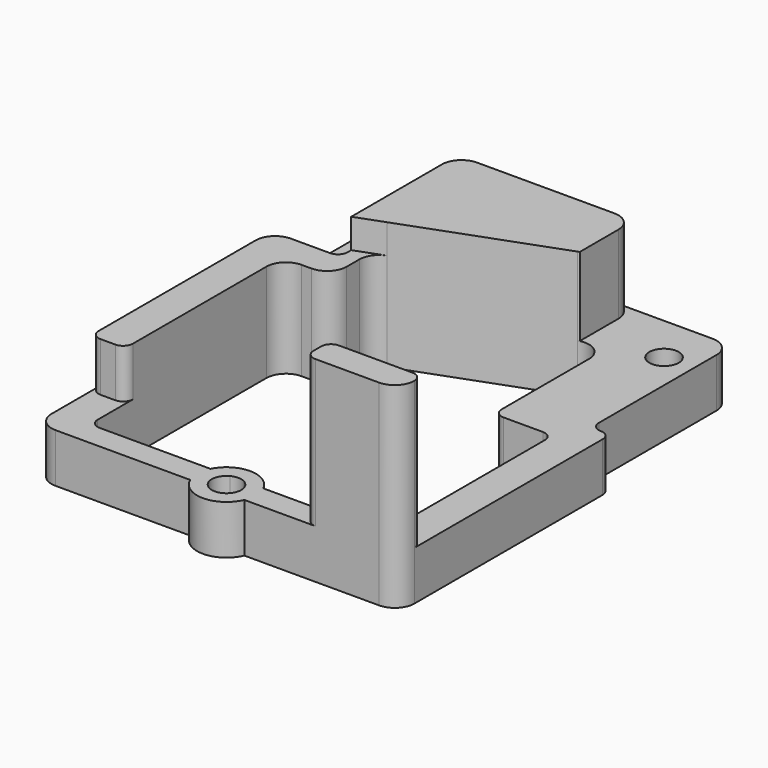
from build123d import *

# Parameters (mm, degrees)
F1_DEPTH = 2
F0_R     = 3
F0_R_2   = 1.5
F2_DEPTH = 5
F4_DEPTH = 5
F5_DEPTH = 8
F6_DEPTH = 4
F7_DEPTH = 15


with BuildPart() as f1:
    # F0 (on Top) → F1 (new body)
    with BuildSketch(Plane.XY):
        with BuildLine():
            Line((-14, -20), (-2.69212803, -20))
            ThreePointArc((-2.69212803, -20), (0, -18.323800087), (2.69212803, -20))
            Line((2.69212803, -20), (14, -20))
            ThreePointArc((14, -20), (14.7071067812, -19.7071067812), (15, -19))
            Line((15, -19), (15, -15.5))
            ThreePointArc((15, -15.5), (14.4142135624, -16.9142135624), (13, -17.5))
            Line((13, -17.5), (-13, -17.5))
            ThreePointArc((-13, -17.5), (-14.4142135624, -16.9142135624), (-15, -15.5))
            Line((-15, -15.5), (-15, -19))
            ThreePointArc((-15, -19), (-14.7071067812, -19.7071067812), (-14, -20))
        make_face()
    extrude(amount=F1_DEPTH)

    # F0 (on Top) → F2 (join)
    with BuildSketch(Plane.XY):
        with BuildLine():
            Line((2.7598104581, -22.5), (16.5, -22.5))
            ThreePointArc((16.5, -22.5), (17.9142135624, -21.9142135624), (18.5, -20.5))
            Line((18.5, -20.5), (18.5, 3.5))
            ThreePointArc((18.5, 3.5), (18.2071067812, 4.2071067812), (17.5, 4.5))
            ThreePointArc((17.5, 4.5), (16.7928932188, 4.7928932188), (16.5, 5.5))
            Line((16.5, 5.5), (16.5, 17.5694916397))
            Line((16.5, 17.5694916397), (16.5, 20.5))
            ThreePointArc((16.5, 20.5), (15.9142135624, 21.9142135624), (14.5, 22.5))
            Line((14.5, 22.5), (-16.5, 22.5))
            ThreePointArc((-16.5, 22.5), (-17.9142135624, 21.9142135624), (-18.5, 20.5))
            Line((-18.5, 20.5), (-18.5, 17.5694916397))
            Line((-18.5, 17.5694916397), (-18.5, -20.5))
            ThreePointArc((-18.5, -20.5), (-17.9142135624, -21.9142135624), (-16.5, -22.5))
            Line((-16.5, -22.5), (-2.7598104581, -22.5))
            ThreePointArc((-2.7598104581, -22.5), (-2.9989011853, -21.2426109214), (-2.69212803, -20))
            Line((-2.69212803, -20), (-14, -20))
            ThreePointArc((-14, -20), (-14.7071067812, -19.7071067812), (-15, -19))
            Line((-15, -19), (-15, -15.5))
            Line((-15, -15.5), (-15, 2.5))
            ThreePointArc((-15, 2.5), (-14.4142135624, 3.9142135624), (-13, 4.5))
            Line((-13, 4.5), (-12, 4.5))
            ThreePointArc((-12, 4.5), (-10.5857864376, 5.0857864376), (-10, 6.5))
            Line((-10, 6.5), (-10, 8.1054256072))
            ThreePointArc((-10, 8.1054256072), (-9.6405519552, 9.2493614806), (-8.6914107177, 9.9821118409))
            Line((-8.6914107177, 9.9821118409), (6.3085892823, 15.5084276303))
            ThreePointArc((6.3085892823, 15.5084276303), (8.1439358734, 15.2722933519), (9, 13.6317413967))
            Line((9, 13.6317413967), (9, 2.5))
            ThreePointArc((9, 2.5), (9.2928932188, 1.7928932188), (10, 1.5))
            Line((10, 1.5), (14, 1.5))
            ThreePointArc((14, 1.5), (14.7071067812, 1.2071067812), (15, 0.5))
            Line((15, 0.5), (15, -15.5))
            Line((15, -15.5), (15, -19))
            ThreePointArc((15, -19), (14.7071067812, -19.7071067812), (14, -20))
            Line((14, -20), (2.69212803, -20))
            ThreePointArc((2.69212803, -20), (2.9220184881, -20.6442355536), (3, -21.323800087))
            ThreePointArc((3, -21.323800087), (2.9393393283, -21.9240369676), (2.7598104581, -22.5))
        make_face()
        with BuildLine():
            ThreePointArc((-12.5, 17.5694916397), (-15.5, 14.5694916397), (-18.5, 17.5694916397))
            ThreePointArc((-18.5, 17.5694916397), (-15.5, 20.5694916397), (-12.5, 17.5694916397))
        make_face(mode=Mode.SUBTRACT)
        with Locations((13.5, 17.5694916397)):
            Circle(F0_R, mode=Mode.SUBTRACT)
        with BuildLine():
            ThreePointArc((2.69212803, -20), (0, -18.323800087), (-2.69212803, -20))
            Line((-2.69212803, -20), (-0.7053746024, -20))
            ThreePointArc((-0.7053746024, -20), (0, -19.823800087), (0.7053746024, -20))
            Line((0.7053746024, -20), (2.69212803, -20))
        make_face()
        with BuildLine():
            ThreePointArc((-2.69212803, -20), (-2.9989011853, -21.2426109214), (-2.7598104581, -22.5))
            Line((-2.7598104581, -22.5), (-0.9308886961, -22.5))
            ThreePointArc((-0.9308886961, -22.5), (-1.4939342005, -21.1890388), (-0.7053746024, -20))
            Line((-0.7053746024, -20), (-2.69212803, -20))
        make_face()
        with BuildLine():
            Line((0.9308886961, -22.5), (2.7598104581, -22.5))
            ThreePointArc((2.7598104581, -22.5), (2.9393393283, -21.9240369676), (3, -21.323800087))
            ThreePointArc((3, -21.323800087), (2.9220184881, -20.6442355536), (2.69212803, -20))
            Line((2.69212803, -20), (0.7053746024, -20))
            ThreePointArc((0.7053746024, -20), (1.2860913466, -20.5518097708), (1.5, -21.323800087))
            ThreePointArc((1.5, -21.323800087), (1.3502468375, -21.9771250275), (0.9308886961, -22.5))
        make_face()
        with BuildLine():
            ThreePointArc((-2.7598104581, -22.5), (0, -24.323800087), (2.7598104581, -22.5))
            Line((2.7598104581, -22.5), (0.9308886961, -22.5))
            ThreePointArc((0.9308886961, -22.5), (0, -22.823800087), (-0.9308886961, -22.5))
            Line((-0.9308886961, -22.5), (-2.7598104581, -22.5))
        make_face()
        with BuildLine():
            ThreePointArc((-12.5, 17.5694916397), (-15.5, 20.5694916397), (-18.5, 17.5694916397))
            ThreePointArc((-18.5, 17.5694916397), (-15.5, 14.5694916397), (-12.5, 17.5694916397))
        make_face()
        with Locations((-15.5, 17.5694916397)):
            Circle(F0_R_2, mode=Mode.SUBTRACT)
        with Locations((13.5, 17.5694916397)):
            Circle(F0_R)
        with Locations((13.5, 17.5694916397)):
            Circle(F0_R_2, mode=Mode.SUBTRACT)
    extrude(amount=F2_DEPTH)

    # F3 (on face) → F4 (join)
    with BuildSketch(Plane.XY.offset(5)):
        with BuildLine():
            ThreePointArc((-18.5, -14.5), (-18.2071067812, -15.2071067812), (-17.5, -15.5))
            Line((-17.5, -15.5), (-16, -15.5))
            ThreePointArc((-16, -15.5), (-15.2928932188, -15.2071067812), (-15, -14.5))
            Line((-15, -14.5), (-15, 2.5))
            ThreePointArc((-15, 2.5), (-14.4142135624, 3.9142135624), (-13, 4.5))
            Line((-13, 4.5), (-12, 4.5))
            ThreePointArc((-12, 4.5), (-10.5857864376, 5.0857864376), (-10, 6.5))
            Line((-10, 6.5), (-10, 8.1054256072))
            ThreePointArc((-10, 8.1054256072), (-9.6405519552, 9.2493614806), (-8.6914107177, 9.9821118409))
            Line((-8.6914107177, 9.9821118409), (-11.5, 8.9473684211))
            Line((-11.5, 8.9473684211), (-11.5, 8.5))
            ThreePointArc((-11.5, 8.5), (-11.7928932188, 7.7928932188), (-12.5, 7.5))
            Line((-12.5, 7.5), (-16.5, 7.5))
            ThreePointArc((-16.5, 7.5), (-17.9142135624, 6.9142135624), (-18.5, 5.5))
            Line((-18.5, 5.5), (-18.5, -14.5))
        make_face()
    extrude(amount=F4_DEPTH)

    # F3 (on face) → F5 (join)
    with BuildSketch(Plane.XY.offset(5)):
        with BuildLine():
            Line((4.5, 22.5), (-9.5, 22.5))
            ThreePointArc((-9.5, 22.5), (-10.9142135624, 21.9142135624), (-11.5, 20.5))
            Line((-11.5, 20.5), (-11.5, 8.9473684211))
            Line((-11.5, 8.9473684211), (-8.6914107177, 9.9821118409))
            Line((-8.6914107177, 9.9821118409), (6.3085892823, 15.5084276303))
            Line((6.3085892823, 15.5084276303), (6.5, 15.5789473684))
            Line((6.5, 15.5789473684), (6.5, 20.5))
            ThreePointArc((6.5, 20.5), (5.9142135624, 21.9142135624), (4.5, 22.5))
        make_face()
    extrude(amount=F5_DEPTH)

    # F3 (on face) → F6 (join)
    with BuildSketch(Plane.XY.offset(5)):
        with BuildLine():
            ThreePointArc((10, -19.5), (9.5, -19.6339745962), (9.1339745962, -20))
            Line((9.1339745962, -20), (14, -20))
            ThreePointArc((14, -20), (14.5, -19.8660254038), (14.8660254038, -19.5))
            Line((14.8660254038, -19.5), (10, -19.5))
        make_face()
        with BuildLine():
            ThreePointArc((9, -21.5), (9.2928932188, -22.2071067812), (10, -22.5))
            Line((10, -22.5), (16.5, -22.5))
            ThreePointArc((16.5, -22.5), (17.9142135624, -21.9142135624), (18.5, -20.5))
            ThreePointArc((18.5, -20.5), (18.2071067812, -19.7928932188), (17.5, -19.5))
            Line((17.5, -19.5), (14.8660254038, -19.5))
            ThreePointArc((14.8660254038, -19.5), (14.5, -19.8660254038), (14, -20))
            Line((14, -20), (9.1339745962, -20))
            ThreePointArc((9.1339745962, -20), (9.0340741737, -20.2411809549), (9, -20.5))
            Line((9, -20.5), (9, -21.5))
        make_face()
    extrude(amount=-F6_DEPTH)

    # F3 (on face) → F7 (join)
    with BuildSketch(Plane.XY.offset(5)):
        with BuildLine():
            ThreePointArc((10, -19.5), (9.5, -19.6339745962), (9.1339745962, -20))
            Line((9.1339745962, -20), (14, -20))
            ThreePointArc((14, -20), (14.5, -19.8660254038), (14.8660254038, -19.5))
            Line((14.8660254038, -19.5), (10, -19.5))
        make_face()
        with BuildLine():
            ThreePointArc((9, -21.5), (9.2928932188, -22.2071067812), (10, -22.5))
            Line((10, -22.5), (16.5, -22.5))
            ThreePointArc((16.5, -22.5), (17.9142135624, -21.9142135624), (18.5, -20.5))
            ThreePointArc((18.5, -20.5), (18.2071067812, -19.7928932188), (17.5, -19.5))
            Line((17.5, -19.5), (14.8660254038, -19.5))
            ThreePointArc((14.8660254038, -19.5), (14.5, -19.8660254038), (14, -20))
            Line((14, -20), (9.1339745962, -20))
            ThreePointArc((9.1339745962, -20), (9.0340741737, -20.2411809549), (9, -20.5))
            Line((9, -20.5), (9, -21.5))
        make_face()
    extrude(amount=F7_DEPTH)


solid = f1.part
